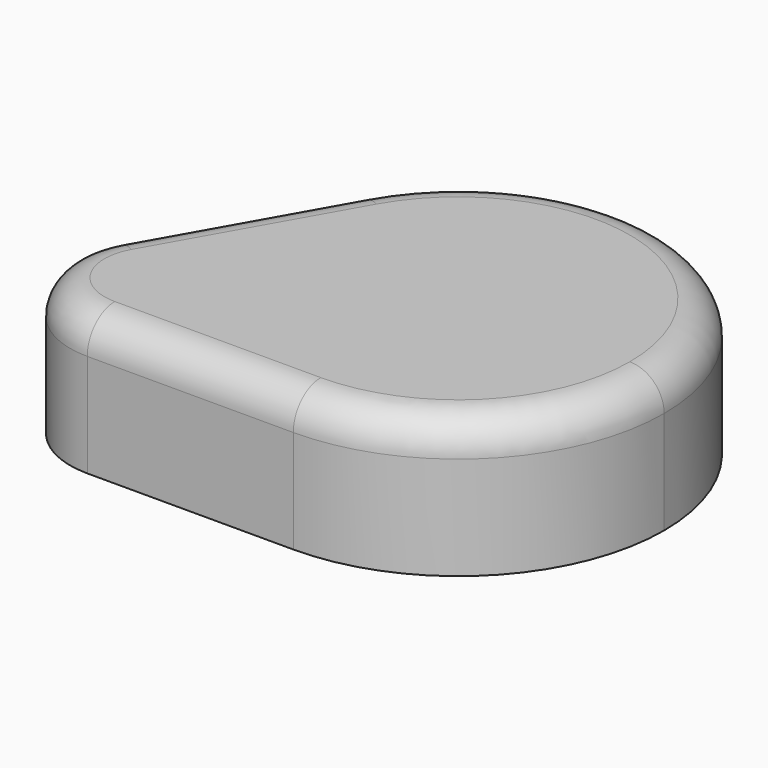
from build123d import *

# Parameters (mm, degrees)
F1_DEPTH = 20
F2_R     = 5
F3_T     = -4


with BuildPart() as f1:
    # F0 (on Top) → F1 (new body)
    with BuildSketch(Plane.XY):
        with BuildLine():
            ThreePointArc((30, 0), (51.2132034356, 8.7867965644), (60, 30))
            ThreePointArc((60, 30), (37.6347989784, 59.0122361179), (3.8860103627, 44.7668393782))
            ThreePointArc((3.8860103627, 44.7668393782), (0.4502981981, 35.1783321081), (0.4207995235, 24.9929151026))
            ThreePointArc((0.4207995235, 24.9929151026), (8.9863784152, 21.1887860474), (12.5, 12.5))
            ThreePointArc((12.5, 12.5), (12.1402716069, 9.5227856456), (11.0817911501, 6.716929457))
            ThreePointArc((11.0817911501, 6.716929457), (19.9623736942, 1.7290598291), (30, 0))
        make_face()
        with BuildLine():
            ThreePointArc((0.4207995235, 24.9929151026), (0.4502981981, 35.1783321081), (3.8860103627, 44.7668393782))
            Line((3.8860103627, 44.7668393782), (-10.8808290155, 18.6528497409))
            ThreePointArc((-10.8808290155, 18.6528497409), (-6.1157306547, 23.4017355755), (0.4207995235, 24.9929151026))
        make_face()
        with BuildLine():
            Line((0, 0), (30, 0))
            ThreePointArc((30, 0), (19.9623736942, 1.7290598291), (11.0817911501, 6.716929457))
            ThreePointArc((11.0817911501, 6.716929457), (6.4792599196, 1.8103231623), (0, 0))
        make_face()
        with BuildLine():
            ThreePointArc((11.0817911501, 6.716929457), (4.086632973, 14.8838692343), (0.4207995235, 24.9929151026))
            ThreePointArc((0.4207995235, 24.9929151026), (-6.1157306547, 23.4017355755), (-10.8808290155, 18.6528497409))
            ThreePointArc((-10.8808290155, 18.6528497409), (-10.7972362612, 6.2016121809), (0, 0))
            ThreePointArc((0, 0), (6.4792599196, 1.8103231623), (11.0817911501, 6.716929457))
        make_face()
        with BuildLine():
            ThreePointArc((12.5, 12.5), (8.9863784152, 21.1887860474), (0.4207995235, 24.9929151026))
            ThreePointArc((0.4207995235, 24.9929151026), (4.086632973, 14.8838692343), (11.0817911501, 6.716929457))
            ThreePointArc((11.0817911501, 6.716929457), (12.1402716069, 9.5227856456), (12.5, 12.5))
        make_face()
    extrude(amount=F1_DEPTH)

    # F2
    f2_edges = [f1.edges().sort_by_distance(p)[0] for p in [
        (55.913367, 45.116131, 20),
        (-3.497409, 31.709845, 20),
        (-10.797236, 6.201612, 20),
        (15, 0, 20),
    ]]
    fillet(f2_edges, radius=F2_R)

    # F3
    f3_openings = [f1.faces().sort_by_distance(p)[0] for p in [
        (25.443673, 27.342143, 0),
    ]]
    offset(amount=F3_T, openings=f3_openings)


solid = f1.part
